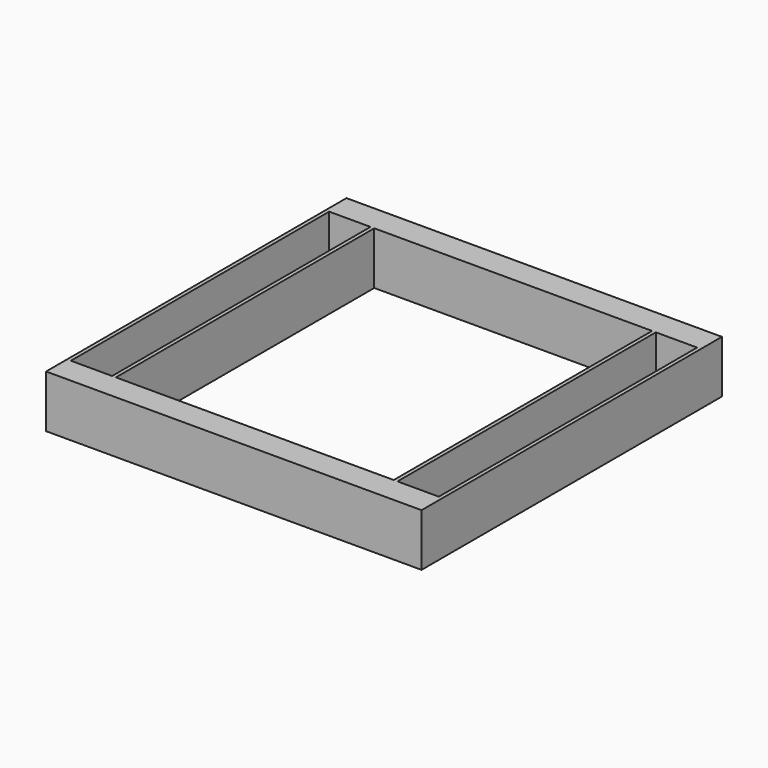
from build123d import *

# Parameters (mm, degrees)
F0_W     = 1.27
F0_H     = 109.22
F1_DEPTH = 8.89


with BuildPart() as f1:
    # F0 (on Top) → F1 (new body, symmetric)
    with BuildSketch(Plane.XY):
        Polygon((-63.5, -63.5), (63.5, -63.5), (63.5, -54.61), (62.23, -54.61), (48.26, -54.61), (46.99, -54.61), (-46.99, -54.61), (-48.26, -54.61), (-62.23, -54.61), (-63.5, -54.61), align=None)
        with Locations((62.865, 0)):
            Rectangle(F0_W, F0_H)
        with Locations((-62.865, 0)):
            Rectangle(F0_W, F0_H)
        Polygon((62.23, 54.61), (63.5, 54.61), (63.5, 63.5), (-63.5, 63.5), (-63.5, 54.61), (-62.23, 54.61), (-48.26, 54.61), (-46.99, 54.61), (46.99, 54.61), (48.26, 54.61), align=None)
        with Locations((-47.625, 0)):
            Rectangle(F0_W, F0_H)
        with Locations((47.625, 0)):
            Rectangle(F0_W, F0_H)
    extrude(amount=F1_DEPTH, both=True)


solid = f1.part
